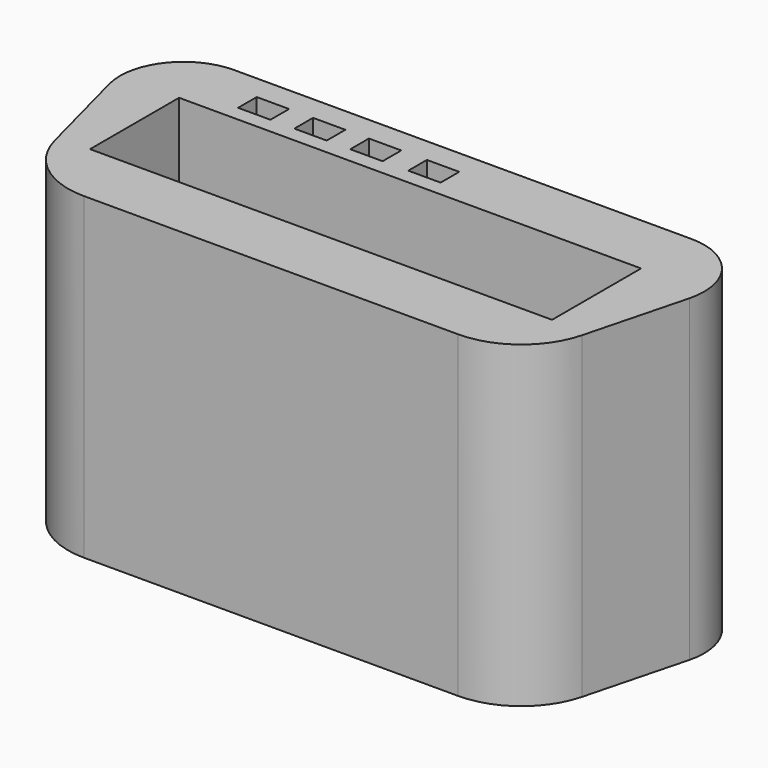
from build123d import *

# Parameters (mm, degrees)
PAD_DEPTH                       = 12.3
BOX059_W                        = 17.85
BOX059_H                        = 4.3
BOX059_DEPTH                    = 10
BOX060_W                        = 1.25
BOX060_H                        = 0.9
BOX060_DEPTH                    = 7.5
BOX061_W                        = 1.25
BOX061_H                        = 0.9
BOX061_DEPTH                    = 7.5
BOX062_W                        = 1.25
BOX062_H                        = 0.9
BOX062_DEPTH                    = 7.5
BOX063_W                        = 1.25
BOX063_H                        = 0.9
BOX063_DEPTH                    = 7.5
POCKET002_DEPTH                 = 2.3
POCKET002_LINEARPATTERN_2_DEPTH = 2.3
POCKET002_LINEARPATTERN_3_DEPTH = 2.3
POCKET002_LINEARPATTERN_4_DEPTH = 2.3
POCKET002_LINEARPATTERN_5_DEPTH = 2.3
POCKET002_LINEARPATTERN_6_DEPTH = 2.3
POCKET002_LINEARPATTERN_7_DEPTH = 2.3


with BuildPart() as part:
    # Sketch004 → Pad (new body)
    with BuildSketch(Plane.XY):
        with BuildLine():
            Line((-8.83497, 4.603946), (0, 4.603946))
            Line((8.83497, 4.603946), (0, 4.603946))
            ThreePointArc((11.206338, 1.532899), (10.77499, 3.650898), (8.83497, 4.603946))
            Line((11.206338, 1.532899), (10.183771, -2.378367))
            ThreePointArc((7.230294, -4.658952), (9.096044, -4.02245), (10.183771, -2.378367))
            Line((0, -4.658952), (7.230294, -4.658952))
            Line((0, -4.658952), (-7.230294, -4.658952))
            ThreePointArc((-10.183771, -2.378367), (-9.096044, -4.02245), (-7.230294, -4.658952))
            Line((-11.206338, 1.532899), (-10.183771, -2.378367))
            ThreePointArc((-8.83497, 4.603946), (-10.77499, 3.650898), (-11.206338, 1.532899))
        make_face()
    extrude(amount=PAD_DEPTH)

    # Box059 → Box059 (cut)
    with BuildSketch(Plane(origin=(-9, -2.15, 2.3), x_dir=(1, 0, 0), z_dir=(0, 0, 1))):
        with Locations((8.925, 2.15)):
            Rectangle(BOX059_W, BOX059_H)
    extrude(amount=BOX059_DEPTH, mode=Mode.SUBTRACT)

    # Box060 → Box060 (cut)
    with BuildSketch(Plane(origin=(-7.2, 2.75, 5), x_dir=(1, 0, 0), z_dir=(0, 0, 1))):
        with Locations((0.625, 0.45)):
            Rectangle(BOX060_W, BOX060_H)
    extrude(amount=BOX060_DEPTH, mode=Mode.SUBTRACT)

    # Box061 → Box061 (cut)
    with BuildSketch(Plane(origin=(-5.025, 2.75, 5), x_dir=(1, 0, 0), z_dir=(0, 0, 1))):
        with Locations((0.625, 0.45)):
            Rectangle(BOX061_W, BOX061_H)
    extrude(amount=BOX061_DEPTH, mode=Mode.SUBTRACT)

    # Box062 → Box062 (cut)
    with BuildSketch(Plane(origin=(-2.865, 2.75, 5), x_dir=(1, 0, 0), z_dir=(0, 0, 1))):
        with Locations((0.625, 0.45)):
            Rectangle(BOX062_W, BOX062_H)
    extrude(amount=BOX062_DEPTH, mode=Mode.SUBTRACT)

    # Box063 → Box063 (cut)
    with BuildSketch(Plane(origin=(-0.625, 2.75, 5), x_dir=(1, 0, 0), z_dir=(0, 0, 1))):
        with Locations((0.625, 0.45)):
            Rectangle(BOX063_W, BOX063_H)
    extrude(amount=BOX063_DEPTH, mode=Mode.SUBTRACT)

    # Sketch005 → Pocket002 (cut, symmetric)
    with BuildSketch(Plane.XY):
        with BuildLine():
            ThreePointArc((-6.6675, 2.413), (-6.757303, 2.375803), (-6.7945, 2.286))
            Line((-6.7945, 2.032), (-6.7945, 2.286))
            ThreePointArc((-6.7945, 2.032), (-6.757303, 1.942197), (-6.6675, 1.905))
            Line((-6.2865, 1.905), (-6.6675, 1.905))
            ThreePointArc((-6.2865, 1.905), (-6.196697, 1.942197), (-6.1595, 2.032))
            Line((-6.1595, 2.286), (-6.1595, 2.032))
            ThreePointArc((-6.1595, 2.286), (-6.196697, 2.375803), (-6.2865, 2.413))
            Line((-6.6675, 2.413), (-6.2865, 2.413))
        make_face()
    pocket002 = extrude(amount=POCKET002_DEPTH, both=True, mode=Mode.SUBTRACT)

    # Sketch005 LinearPattern 2 → Pocket002 LinearPattern 2 (cut, symmetric)
    with BuildSketch(Plane(origin=(2.16, 0, 0), x_dir=(1, 0, 0), z_dir=(0, 0, 1))):
        with BuildLine():
            ThreePointArc((-6.6675, 2.413), (-6.757303, 2.375803), (-6.7945, 2.286))
            Line((-6.7945, 2.032), (-6.7945, 2.286))
            ThreePointArc((-6.7945, 2.032), (-6.757303, 1.942197), (-6.6675, 1.905))
            Line((-6.2865, 1.905), (-6.6675, 1.905))
            ThreePointArc((-6.2865, 1.905), (-6.196697, 1.942197), (-6.1595, 2.032))
            Line((-6.1595, 2.286), (-6.1595, 2.032))
            ThreePointArc((-6.1595, 2.286), (-6.196697, 2.375803), (-6.2865, 2.413))
            Line((-6.6675, 2.413), (-6.2865, 2.413))
        make_face()
    pocket002_linearpattern_2 = extrude(amount=POCKET002_LINEARPATTERN_2_DEPTH, both=True, mode=Mode.SUBTRACT)

    # Sketch005 LinearPattern 3 → Pocket002 LinearPattern 3 (cut, symmetric)
    with BuildSketch(Plane(origin=(4.32, 0, 0), x_dir=(1, 0, 0), z_dir=(0, 0, 1))):
        with BuildLine():
            ThreePointArc((-6.6675, 2.413), (-6.757303, 2.375803), (-6.7945, 2.286))
            Line((-6.7945, 2.032), (-6.7945, 2.286))
            ThreePointArc((-6.7945, 2.032), (-6.757303, 1.942197), (-6.6675, 1.905))
            Line((-6.2865, 1.905), (-6.6675, 1.905))
            ThreePointArc((-6.2865, 1.905), (-6.196697, 1.942197), (-6.1595, 2.032))
            Line((-6.1595, 2.286), (-6.1595, 2.032))
            ThreePointArc((-6.1595, 2.286), (-6.196697, 2.375803), (-6.2865, 2.413))
            Line((-6.6675, 2.413), (-6.2865, 2.413))
        make_face()
    pocket002_linearpattern_3 = extrude(amount=POCKET002_LINEARPATTERN_3_DEPTH, both=True, mode=Mode.SUBTRACT)

    # Sketch005 LinearPattern 4 → Pocket002 LinearPattern 4 (cut, symmetric)
    with BuildSketch(Plane(origin=(6.48, 0, 0), x_dir=(1, 0, 0), z_dir=(0, 0, 1))):
        with BuildLine():
            ThreePointArc((-6.6675, 2.413), (-6.757303, 2.375803), (-6.7945, 2.286))
            Line((-6.7945, 2.032), (-6.7945, 2.286))
            ThreePointArc((-6.7945, 2.032), (-6.757303, 1.942197), (-6.6675, 1.905))
            Line((-6.2865, 1.905), (-6.6675, 1.905))
            ThreePointArc((-6.2865, 1.905), (-6.196697, 1.942197), (-6.1595, 2.032))
            Line((-6.1595, 2.286), (-6.1595, 2.032))
            ThreePointArc((-6.1595, 2.286), (-6.196697, 2.375803), (-6.2865, 2.413))
            Line((-6.6675, 2.413), (-6.2865, 2.413))
        make_face()
    pocket002_linearpattern_4 = extrude(amount=POCKET002_LINEARPATTERN_4_DEPTH, both=True, mode=Mode.SUBTRACT)

    # Sketch005 LinearPattern 5 → Pocket002 LinearPattern 5 (cut, symmetric)
    with BuildSketch(Plane(origin=(8.64, 0, 0), x_dir=(1, 0, 0), z_dir=(0, 0, 1))):
        with BuildLine():
            ThreePointArc((-6.6675, 2.413), (-6.757303, 2.375803), (-6.7945, 2.286))
            Line((-6.7945, 2.032), (-6.7945, 2.286))
            ThreePointArc((-6.7945, 2.032), (-6.757303, 1.942197), (-6.6675, 1.905))
            Line((-6.2865, 1.905), (-6.6675, 1.905))
            ThreePointArc((-6.2865, 1.905), (-6.196697, 1.942197), (-6.1595, 2.032))
            Line((-6.1595, 2.286), (-6.1595, 2.032))
            ThreePointArc((-6.1595, 2.286), (-6.196697, 2.375803), (-6.2865, 2.413))
            Line((-6.6675, 2.413), (-6.2865, 2.413))
        make_face()
    pocket002_linearpattern_5 = extrude(amount=POCKET002_LINEARPATTERN_5_DEPTH, both=True, mode=Mode.SUBTRACT)

    # Sketch005 LinearPattern 6 → Pocket002 LinearPattern 6 (cut, symmetric)
    with BuildSketch(Plane(origin=(10.8, 0, 0), x_dir=(1, 0, 0), z_dir=(0, 0, 1))):
        with BuildLine():
            ThreePointArc((-6.6675, 2.413), (-6.757303, 2.375803), (-6.7945, 2.286))
            Line((-6.7945, 2.032), (-6.7945, 2.286))
            ThreePointArc((-6.7945, 2.032), (-6.757303, 1.942197), (-6.6675, 1.905))
            Line((-6.2865, 1.905), (-6.6675, 1.905))
            ThreePointArc((-6.2865, 1.905), (-6.196697, 1.942197), (-6.1595, 2.032))
            Line((-6.1595, 2.286), (-6.1595, 2.032))
            ThreePointArc((-6.1595, 2.286), (-6.196697, 2.375803), (-6.2865, 2.413))
            Line((-6.6675, 2.413), (-6.2865, 2.413))
        make_face()
    pocket002_linearpattern_6 = extrude(amount=POCKET002_LINEARPATTERN_6_DEPTH, both=True, mode=Mode.SUBTRACT)

    # Sketch005 LinearPattern 7 → Pocket002 LinearPattern 7 (cut, symmetric)
    with BuildSketch(Plane(origin=(12.96, 0, 0), x_dir=(1, 0, 0), z_dir=(0, 0, 1))):
        with BuildLine():
            ThreePointArc((-6.6675, 2.413), (-6.757303, 2.375803), (-6.7945, 2.286))
            Line((-6.7945, 2.032), (-6.7945, 2.286))
            ThreePointArc((-6.7945, 2.032), (-6.757303, 1.942197), (-6.6675, 1.905))
            Line((-6.2865, 1.905), (-6.6675, 1.905))
            ThreePointArc((-6.2865, 1.905), (-6.196697, 1.942197), (-6.1595, 2.032))
            Line((-6.1595, 2.286), (-6.1595, 2.032))
            ThreePointArc((-6.1595, 2.286), (-6.196697, 2.375803), (-6.2865, 2.413))
            Line((-6.6675, 2.413), (-6.2865, 2.413))
        make_face()
    pocket002_linearpattern_7 = extrude(amount=POCKET002_LINEARPATTERN_7_DEPTH, both=True, mode=Mode.SUBTRACT)

    # Mirrored: Pocket002, Pocket002 LinearPattern 2, Pocket002 LinearPattern 3, Pocket002 LinearPattern 4, Pocket002 LinearPattern 5, Pocket002 LinearPattern 6, Pocket002 LinearPattern 7 across Sketch005 H_Axis
    add(pocket002.mirror(Plane.ZX), mode=Mode.SUBTRACT)
    add(pocket002_linearpattern_2.mirror(Plane.ZX), mode=Mode.SUBTRACT)
    add(pocket002_linearpattern_3.mirror(Plane.ZX), mode=Mode.SUBTRACT)
    add(pocket002_linearpattern_4.mirror(Plane.ZX), mode=Mode.SUBTRACT)
    add(pocket002_linearpattern_5.mirror(Plane.ZX), mode=Mode.SUBTRACT)
    add(pocket002_linearpattern_6.mirror(Plane.ZX), mode=Mode.SUBTRACT)
    add(pocket002_linearpattern_7.mirror(Plane.ZX), mode=Mode.SUBTRACT)


with BuildPart() as part_1:
    # Body002 placement: moved
    add(part.part.moved(Location((0, 0, 0.05))))


solid = part_1.part
